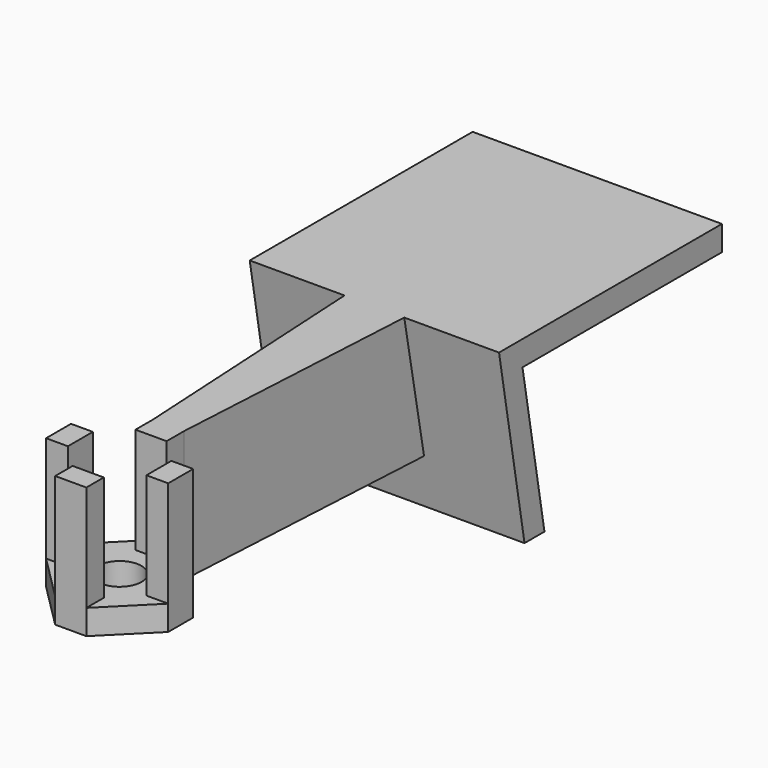
from build123d import *

# Parameters (mm, degrees)
SKETCH_R           = 3.5
PAD_DEPTH          = 4
SKETCH001_W        = 5
SKETCH001_H        = 3.5
PAD001_DEPTH       = 17
POLARPATTERN_COUNT = 4
PAD002_DEPTH       = 17
PAD004_DEPTH       = 4
PAD005_DEPTH       = 20


with BuildPart() as part:
    # Sketch → Pad (new body)
    with BuildSketch(Plane.XY):
        Polygon((-9.8, 2.5), (-9.8, -2.5), (-2.5, -9.8), (2.5, -9.8), (9.8, -2.5), (9.8, 2.5), (2.5, 9.8), (-2.5, 9.8), align=None)
        Circle(SKETCH_R, mode=Mode.SUBTRACT)
    extrude(amount=-PAD_DEPTH)

    # Sketch001 → Pad001 (join)
    with BuildSketch(Plane.XY):
        with Locations((0, 8.05)):
            Rectangle(SKETCH001_W, SKETCH001_H)
    pad001 = extrude(amount=PAD001_DEPTH)

    # PolarPattern: Pad001 ×4 about axis
    polarpattern_axis = Axis((0, 0, 0), (0, 0, 1))
    for i in range(1, POLARPATTERN_COUNT):
        add(pad001.rotate(polarpattern_axis, i * 360 / POLARPATTERN_COUNT))

    # Sketch002 → Pad002 (join)
    with BuildSketch(Plane.XY):
        Polygon((-2.5, 9.8), (-5, 54.8), (5, 54.8), (2.5, 9.8), align=None)
    extrude(amount=PAD002_DEPTH)

    # Sketch002 → Pad004 (join)
    with BuildSketch(Plane.XY):
        Polygon((-2.5, 9.8), (-5, 54.8), (5, 54.8), (2.5, 9.8), align=None)
    extrude(amount=-PAD004_DEPTH)

    # Sketch003 → Pad005 (join, symmetric)
    with BuildSketch(Plane.YZ):
        Polygon((51.097133, 17), (95.802441, 17), (95.802441, 13), (55.802441, 13), (60.210616, -12), (56.210616, -12), align=None)
    extrude(amount=PAD005_DEPTH, both=True)


solid = part.part
